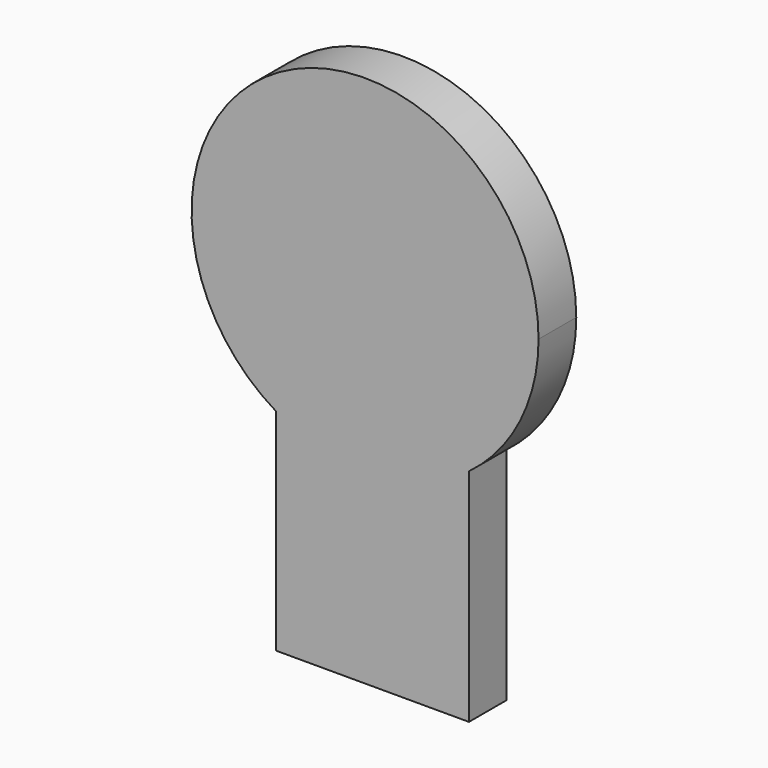
from build123d import *

# Parameters (mm, degrees)
F1_DEPTH = 5


with BuildPart() as f1:
    # F0 (on Front) → F1 (new body)
    with BuildSketch(Plane.XZ):
        with BuildLine():
            ThreePointArc((11.016843, -14.734487), (0.947342, -18.373309), (-9.443007, -15.789413))
            Line((-9.443007, -15.789413), (-9.443007, -38.137238))
            Line((-9.443007, -38.137238), (11.016843, -38.137238))
            Line((11.016843, -38.137238), (11.016843, -14.734487))
        make_face()
        with BuildLine():
            Line((-9.443007, 0), (-9.443007, -15.789413))
            ThreePointArc((-9.443007, -15.789413), (0.947342, -18.373309), (11.016843, -14.734487))
            Line((11.016843, -14.734487), (11.016843, 0))
            Line((11.016843, 0), (-9.443007, 0))
        make_face()
        with BuildLine():
            ThreePointArc((11.016843, -14.734487), (16.449327, -8.239879), (18.397716, 0))
            ThreePointArc((18.397716, 0), (-9.075962, 16.003214), (-9.443007, -15.789413))
            Line((-9.443007, -15.789413), (-9.443007, 0))
            Line((-9.443007, 0), (11.016843, 0))
            Line((11.016843, 0), (11.016843, -14.734487))
        make_face()
    extrude(amount=F1_DEPTH)


solid = f1.part
